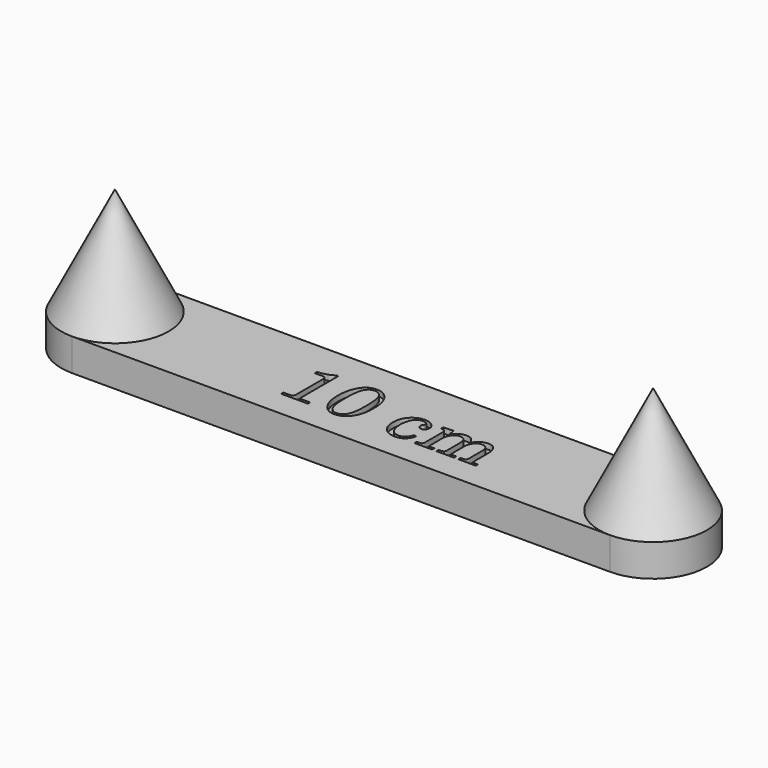
from build123d import *

# Parameters (mm, degrees)
PAD_DEPTH    = 6
POCKET_DEPTH = 1


with BuildPart() as part:
    # Sketch (on DatumPlane) → Pad (new body)
    with BuildSketch(Plane.XY):
        with BuildLine():
            Line((-50, 10), (0, 10))
            Line((0, 10), (50, 10))
            ThreePointArc((50, -10), (60, 0), (50, 10))
            Line((50, -10), (0, -10))
            Line((0, -10), (-50, -10))
            ThreePointArc((-50, 10), (-60, 0), (-50, -10))
        make_face()
    extrude(amount=PAD_DEPTH)

    # Sketch001 (on DatumPlane) → Revolution (revolve)
    with BuildSketch(Plane(origin=(50, 0, 0), x_dir=(1, 0, 0), z_dir=(0, -1, 0))):
        Polygon((0, 26), (10, 6), (0, 6), align=None)
    revolve(axis=Axis((50, 0, 0), (0, 0, 1)))

    # Sketch002 (on DatumPlane) → Revolution001 (revolve)
    with BuildSketch(Plane(origin=(-50, 0, 0), x_dir=(1, 0, 0), z_dir=(0, -1, 0))):
        Polygon((0, 26), (10, 6), (0, 6), align=None)
    revolve(axis=Axis((-50, 0, 0), (0, 0, 1)))

    # Sketch003 (on DatumPlane) → Pocket (cut)
    with BuildSketch(Plane(origin=(-18, 6, 6), x_dir=(1, 0, 0), z_dir=(0, 0, 1))):
        with BuildLine():
            add(Edge.make_bspline(
                [(5.993538, -1.568271), (5.993538, -10.167222)],
                knots=[0, 0, 8.598951, 8.598951], degree=1))
            add(Edge.make_bspline(
                [(5.993538, -10.167222), (5.993538, -10.360147), (6.131341, -10.4635)],
                knots=[0, 0, 0, 1, 1, 1], degree=2))
            add(Edge.make_bspline(
                [(6.131341, -10.4635), (6.331157, -10.608194), (6.620545, -10.608194)],
                knots=[0, 0, 0, 1, 1, 1], degree=2))
            add(Edge.make_bspline(
                [(6.620545, -10.608194), (7.957241, -10.608194)],
                knots=[0, 0, 1.336696, 1.336696], degree=1))
            add(Edge.make_bspline(
                [(7.957241, -10.608194), (7.957241, -11.124958)],
                knots=[0, 0, 0.516764, 0.516764], degree=1))
            add(Edge.make_bspline(
                [(7.957241, -11.124958), (3.003197, -11.124958)],
                knots=[0, 0, 4.954044, 4.954044], degree=1))
            add(Edge.make_bspline(
                [(3.003197, -11.124958), (3.003197, -10.608194)],
                knots=[0, 0, 0.516764, 0.516764], degree=1))
            add(Edge.make_bspline(
                [(3.003197, -10.608194), (4.146968, -10.608194)],
                knots=[0, 0, 1.143771, 1.143771], degree=1))
            add(Edge.make_bspline(
                [(4.146968, -10.608194), (4.505258, -10.608194), (4.677512, -10.44283)],
                knots=[0, 0, 0, 1, 1, 1], degree=2))
            add(Edge.make_bspline(
                [(4.677512, -10.44283), (4.849767, -10.270575), (4.849767, -9.988077)],
                knots=[0, 0, 0, 1, 1, 1], degree=2))
            add(Edge.make_bspline(
                [(4.849767, -9.988077), (4.849767, -3.490632)],
                knots=[0, 0, 6.497445, 6.497445], degree=1))
            add(Edge.make_bspline(
                [(4.849767, -3.490632), (4.849767, -3.290817), (4.691293, -3.153013)],
                knots=[0, 0, 0, 1, 1, 1], degree=2))
            add(Edge.make_bspline(
                [(4.691293, -3.153013), (4.532818, -3.01521), (4.284772, -3.01521)],
                knots=[0, 0, 0, 1, 1, 1], degree=2))
            add(Edge.make_bspline(
                [(4.284772, -3.01521), (2.75515, -3.01521)],
                knots=[0, 0, 1.529621, 1.529621], degree=1))
            add(Edge.make_bspline(
                [(2.75515, -3.01521), (2.75515, -2.539787)],
                knots=[0, 0, 0.475423, 0.475423], degree=1))
            add(Edge.make_bspline(
                [(2.75515, -2.539787), (3.830019, -2.401983), (4.498367, -2.174607)],
                knots=[0, 0, 0, 1, 1, 1], degree=2))
            add(Edge.make_bspline(
                [(4.498367, -2.174607), (5.166715, -1.940341), (5.676589, -1.568271)],
                knots=[0, 0, 0, 1, 1, 1], degree=2))
            add(Edge.make_bspline(
                [(5.676589, -1.568271), (5.993538, -1.568271)],
                knots=[0, 0, 0.316949, 0.316949], degree=1))
        make_face()
        with BuildLine():
            add(Edge.make_bspline(
                [(12.993966, -1.389126), (14.337552, -1.389126), (15.233277, -2.436434)],
                knots=[0, 0, 0, 1, 1, 1], degree=2))
            add(Edge.make_bspline(
                [(15.233277, -2.436434), (16.342596, -3.724899), (16.342596, -6.343169)],
                knots=[0, 0, 0, 1, 1, 1], degree=2))
            add(Edge.make_bspline(
                [(16.342596, -6.343169), (16.342596, -8.775405), (15.37797, -10.050089)],
                knots=[0, 0, 0, 1, 1, 1], degree=2))
            add(Edge.make_bspline(
                [(15.37797, -10.050089), (14.413344, -11.317883), (13.049088, -11.317883)],
                knots=[0, 0, 0, 1, 1, 1], degree=2))
            add(Edge.make_bspline(
                [(13.049088, -11.317883), (11.733062, -11.317883), (10.851118, -10.249904)],
                knots=[0, 0, 0, 1, 1, 1], degree=2))
            add(Edge.make_bspline(
                [(10.851118, -10.249904), (9.748689, -8.906318), (9.748689, -6.37073)],
                knots=[0, 0, 0, 1, 1, 1], degree=2))
            add(Edge.make_bspline(
                [(9.748689, -6.37073), (9.748689, -3.959165), (10.789107, -2.532897)],
                knots=[0, 0, 0, 1, 1, 1], degree=2))
            add(Edge.make_bspline(
                [(10.789107, -2.532897), (11.622819, -1.389126), (12.993966, -1.389126)],
                knots=[0, 0, 0, 1, 1, 1], degree=2))
        make_face()
        with BuildLine():
            add(Edge.make_bspline(
                [(13.035306, -1.885219), (12.125802, -1.885219), (11.615928, -2.760273)],
                knots=[0, 0, 0, 1, 1, 1], degree=2))
            add(Edge.make_bspline(
                [(11.615928, -2.760273), (11.106054, -3.628436), (11.106054, -6.37073)],
                knots=[0, 0, 0, 1, 1, 1], degree=2))
            add(Edge.make_bspline(
                [(11.106054, -6.37073), (11.106054, -9.051012), (11.629708, -9.946736)],
                knots=[0, 0, 0, 1, 1, 1], degree=2))
            add(Edge.make_bspline(
                [(11.629708, -9.946736), (12.160253, -10.84246), (13.049087, -10.84246)],
                knots=[0, 0, 0, 1, 1, 1], degree=2))
            add(Edge.make_bspline(
                [(13.049087, -10.84246), (13.944811, -10.84246), (14.427124, -10.015638)],
                knots=[0, 0, 0, 1, 1, 1], degree=2))
            add(Edge.make_bspline(
                [(14.427124, -10.015638), (14.999009, -9.030342), (14.999009, -6.418961)],
                knots=[0, 0, 0, 1, 1, 1], degree=2))
            add(Edge.make_bspline(
                [(14.999009, -6.418961), (14.999009, -3.718008), (14.461575, -2.801614)],
                knots=[0, 0, 0, 1, 1, 1], degree=2))
            add(Edge.make_bspline(
                [(14.461575, -2.801614), (13.92414, -1.885219), (13.035306, -1.885219)],
                knots=[0, 0, 0, 1, 1, 1], degree=2))
        make_face(mode=Mode.SUBTRACT)
        with BuildLine():
            add(Edge.make_bspline(
                [(26.216232, -9.209486), (26.664094, -9.3404)],
                knots=[0, 0, 0.466603, 0.466603], degree=1))
            add(Edge.make_bspline(
                [(26.664094, -9.3404), (26.126659, -11.317883), (24.29387, -11.317883)],
                knots=[0, 0, 0, 1, 1, 1], degree=2))
            add(Edge.make_bspline(
                [(24.29387, -11.317883), (22.950284, -11.317883), (22.095901, -10.429049)],
                knots=[0, 0, 0, 1, 1, 1], degree=2))
            add(Edge.make_bspline(
                [(22.095901, -10.429049), (21.241518, -9.540215), (21.241518, -8.065716)],
                knots=[0, 0, 0, 1, 1, 1], degree=2))
            add(Edge.make_bspline(
                [(21.241518, -8.065716), (21.241518, -6.35695), (22.178583, -5.419884)],
                knots=[0, 0, 0, 1, 1, 1], degree=2))
            add(Edge.make_bspline(
                [(22.178583, -5.419884), (23.115648, -4.475929), (24.383442, -4.475929)],
                knots=[0, 0, 0, 1, 1, 1], degree=2))
            add(Edge.make_bspline(
                [(24.383442, -4.475929), (25.334288, -4.475929), (25.954405, -4.999583)],
                knots=[0, 0, 0, 1, 1, 1], degree=2))
            add(Edge.make_bspline(
                [(25.954405, -4.999583), (26.574521, -5.523237), (26.574521, -6.164024)],
                knots=[0, 0, 0, 1, 1, 1], degree=2))
            add(Edge.make_bspline(
                [(26.574521, -6.164024), (26.574521, -6.549875), (26.340255, -6.804812)],
                knots=[0, 0, 0, 1, 1, 1], degree=2))
            add(Edge.make_bspline(
                [(26.340255, -6.804812), (26.112879, -7.052858), (25.79593, -7.052858)],
                knots=[0, 0, 0, 1, 1, 1], degree=2))
            add(Edge.make_bspline(
                [(25.79593, -7.052858), (25.485872, -7.052858), (25.272276, -6.839263)],
                knots=[0, 0, 0, 1, 1, 1], degree=2))
            add(Edge.make_bspline(
                [(25.272276, -6.839263), (25.058681, -6.625667), (25.058681, -6.322499)],
                knots=[0, 0, 0, 1, 1, 1], degree=2))
            add(Edge.make_bspline(
                [(25.058681, -6.322499), (25.058681, -6.019331), (25.292947, -5.743723)],
                knots=[0, 0, 0, 1, 1, 1], degree=2))
            add(Edge.make_bspline(
                [(25.292947, -5.743723), (25.40319, -5.61281), (25.40319, -5.537018)],
                knots=[0, 0, 0, 1, 1, 1], degree=2))
            add(Edge.make_bspline(
                [(25.40319, -5.537018), (25.40319, -5.337202), (25.134473, -5.151167)],
                knots=[0, 0, 0, 1, 1, 1], degree=2))
            add(Edge.make_bspline(
                [(25.134473, -5.151167), (24.865755, -4.958242), (24.404113, -4.958242)],
                knots=[0, 0, 0, 1, 1, 1], degree=2))
            add(Edge.make_bspline(
                [(24.404113, -4.958242), (23.56351, -4.958242), (23.129429, -5.571468)],
                knots=[0, 0, 0, 1, 1, 1], degree=2))
            add(Edge.make_bspline(
                [(23.129429, -5.571468), (22.509312, -6.460302), (22.509312, -7.914131)],
                knots=[0, 0, 0, 1, 1, 1], degree=2))
            add(Edge.make_bspline(
                [(22.509312, -7.914131), (22.509312, -9.299059), (23.060527, -10.015638)],
                knots=[0, 0, 0, 1, 1, 1], degree=2))
            add(Edge.make_bspline(
                [(23.060527, -10.015638), (23.611742, -10.725327), (24.466125, -10.725327)],
                knots=[0, 0, 0, 1, 1, 1], degree=2))
            add(Edge.make_bspline(
                [(24.466125, -10.725327), (25.644346, -10.725327), (26.216232, -9.209486)],
                knots=[0, 0, 0, 1, 1, 1], degree=2))
        make_face()
        with BuildLine():
            add(Edge.make_bspline(
                [(27.945669, -4.668854), (29.792239, -4.551721)],
                knots=[0, 0, 1.850281, 1.850281], degree=1))
            add(Edge.make_bspline(
                [(29.792239, -4.551721), (29.943823, -5.27519), (29.992055, -5.929758)],
                knots=[0, 0, 0, 1, 1, 1], degree=2))
            add(Edge.make_bspline(
                [(29.992055, -5.929758), (30.515709, -5.171838), (31.039363, -4.861779)],
                knots=[0, 0, 0, 1, 1, 1], degree=2))
            add(Edge.make_bspline(
                [(31.039363, -4.861779), (31.563017, -4.551721), (32.190024, -4.551721)],
                knots=[0, 0, 0, 1, 1, 1], degree=2))
            add(Edge.make_bspline(
                [(32.190024, -4.551721), (32.858372, -4.551721), (33.292454, -4.90312)],
                knots=[0, 0, 0, 1, 1, 1], degree=2))
            add(Edge.make_bspline(
                [(33.292454, -4.90312), (33.726535, -5.25452), (33.960802, -6.046891)],
                knots=[0, 0, 0, 1, 1, 1], degree=2))
            add(Edge.make_bspline(
                [(33.960802, -6.046891), (34.422444, -5.295861), (34.987439, -4.923791)],
                knots=[0, 0, 0, 1, 1, 1], degree=2))
            add(Edge.make_bspline(
                [(34.987439, -4.923791), (35.552434, -4.551721), (36.220782, -4.551721)],
                knots=[0, 0, 0, 1, 1, 1], degree=2))
            add(Edge.make_bspline(
                [(36.220782, -4.551721), (37.102726, -4.551721), (37.543698, -5.075375)],
                knots=[0, 0, 0, 1, 1, 1], degree=2))
            add(Edge.make_bspline(
                [(37.543698, -5.075375), (38.108693, -5.764394), (38.108693, -6.853043)],
                knots=[0, 0, 0, 1, 1, 1], degree=2))
            add(Edge.make_bspline(
                [(38.108693, -6.853043), (38.108693, -10.056979)],
                knots=[0, 0, 3.203936, 3.203936], degree=1))
            add(Edge.make_bspline(
                [(38.108693, -10.056979), (38.108693, -10.346367), (38.253387, -10.44972)],
                knots=[0, 0, 0, 1, 1, 1], degree=2))
            add(Edge.make_bspline(
                [(38.253387, -10.44972), (38.446312, -10.608194), (38.825273, -10.608194)],
                knots=[0, 0, 0, 1, 1, 1], degree=2))
            add(Edge.make_bspline(
                [(38.825273, -10.608194), (39.149111, -10.608194)],
                knots=[0, 0, 0.323838, 0.323838], degree=1))
            add(Edge.make_bspline(
                [(39.149111, -10.608194), (39.149111, -11.124958)],
                knots=[0, 0, 0.516764, 0.516764], degree=1))
            add(Edge.make_bspline(
                [(39.149111, -11.124958), (35.903834, -11.124958)],
                knots=[0, 0, 3.245277, 3.245277], degree=1))
            add(Edge.make_bspline(
                [(35.903834, -11.124958), (35.903834, -10.608194)],
                knots=[0, 0, 0.516764, 0.516764], degree=1))
            add(Edge.make_bspline(
                [(35.903834, -10.608194), (36.227673, -10.608194)],
                knots=[0, 0, 0.323839, 0.323839], degree=1))
            add(Edge.make_bspline(
                [(36.227673, -10.608194), (36.641084, -10.608194), (36.806448, -10.47039)],
                knots=[0, 0, 0, 1, 1, 1], degree=2))
            add(Edge.make_bspline(
                [(36.806448, -10.47039), (36.971813, -10.332587), (36.971813, -10.056979)],
                knots=[0, 0, 0, 1, 1, 1], degree=2))
            add(Edge.make_bspline(
                [(36.971813, -10.056979), (36.971813, -6.853043)],
                knots=[0, 0, 3.203936, 3.203936], degree=1))
            add(Edge.make_bspline(
                [(36.971813, -6.853043), (36.971813, -6.136464), (36.620413, -5.743723)],
                knots=[0, 0, 0, 1, 1, 1], degree=2))
            add(Edge.make_bspline(
                [(36.620413, -5.743723), (36.269014, -5.350983), (35.697128, -5.350983)],
                knots=[0, 0, 0, 1, 1, 1], degree=2))
            add(Edge.make_bspline(
                [(35.697128, -5.350983), (35.263047, -5.350983), (34.911647, -5.585249)],
                knots=[0, 0, 0, 1, 1, 1], degree=2))
            add(Edge.make_bspline(
                [(34.911647, -5.585249), (34.560248, -5.812625), (34.360432, -6.239816)],
                knots=[0, 0, 0, 1, 1, 1], degree=2))
            add(Edge.make_bspline(
                [(34.360432, -6.239816), (34.064154, -6.853043), (34.064154, -7.280234)],
                knots=[0, 0, 0, 1, 1, 1], degree=2))
            add(Edge.make_bspline(
                [(34.064154, -7.280234), (34.064154, -10.056979)],
                knots=[0, 0, 2.776745, 2.776745], degree=1))
            add(Edge.make_bspline(
                [(34.064154, -10.056979), (34.064154, -10.339477), (34.215738, -10.477281)],
                knots=[0, 0, 0, 1, 1, 1], degree=2))
            add(Edge.make_bspline(
                [(34.215738, -10.477281), (34.367322, -10.608194), (34.684271, -10.608194)],
                knots=[0, 0, 0, 1, 1, 1], degree=2))
            add(Edge.make_bspline(
                [(34.684271, -10.608194), (35.125243, -10.608194)],
                knots=[0, 0, 0.440972, 0.440972], degree=1))
            add(Edge.make_bspline(
                [(35.125243, -10.608194), (35.125243, -11.124958)],
                knots=[0, 0, 0.516764, 0.516764], degree=1))
            add(Edge.make_bspline(
                [(35.125243, -11.124958), (31.838624, -11.124958)],
                knots=[0, 0, 3.286619, 3.286619], degree=1))
            add(Edge.make_bspline(
                [(31.838624, -11.124958), (31.838624, -10.608194)],
                knots=[0, 0, 0.516764, 0.516764], degree=1))
            add(Edge.make_bspline(
                [(31.838624, -10.608194), (32.210694, -10.608194)],
                knots=[0, 0, 0.37207, 0.37207], degree=1))
            add(Edge.make_bspline(
                [(32.210694, -10.608194), (32.562094, -10.608194), (32.734348, -10.47039)],
                knots=[0, 0, 0, 1, 1, 1], degree=2))
            add(Edge.make_bspline(
                [(32.734348, -10.47039), (32.906603, -10.332587), (32.906603, -10.118991)],
                knots=[0, 0, 0, 1, 1, 1], degree=2))
            add(Edge.make_bspline(
                [(32.906603, -10.118991), (32.906603, -7.142431)],
                knots=[0, 0, 2.97656, 2.97656], degree=1))
            add(Edge.make_bspline(
                [(32.906603, -7.142431), (32.906603, -6.198475), (32.568984, -5.771284)],
                knots=[0, 0, 0, 1, 1, 1], degree=2))
            add(Edge.make_bspline(
                [(32.568984, -5.771284), (32.238255, -5.344092), (31.67326, -5.344092)],
                knots=[0, 0, 0, 1, 1, 1], degree=2))
            add(Edge.make_bspline(
                [(31.67326, -5.344092), (30.9429, -5.344092), (30.55016, -5.840186)],
                knots=[0, 0, 0, 1, 1, 1], degree=2))
            add(Edge.make_bspline(
                [(30.55016, -5.840186), (29.992055, -6.542985), (29.992055, -7.48005)],
                knots=[0, 0, 0, 1, 1, 1], degree=2))
            add(Edge.make_bspline(
                [(29.992055, -7.48005), (29.992055, -10.056979)],
                knots=[0, 0, 2.576929, 2.576929], degree=1))
            add(Edge.make_bspline(
                [(29.992055, -10.056979), (29.992055, -10.353257), (30.122968, -10.4635)],
                knots=[0, 0, 0, 1, 1, 1], degree=2))
            add(Edge.make_bspline(
                [(30.122968, -10.4635), (30.309003, -10.608194), (30.701744, -10.608194)],
                knots=[0, 0, 0, 1, 1, 1], degree=2))
            add(Edge.make_bspline(
                [(30.701744, -10.608194), (31.032473, -10.608194)],
                knots=[0, 0, 0.330729, 0.330729], degree=1))
            add(Edge.make_bspline(
                [(31.032473, -10.608194), (31.032473, -11.124958)],
                knots=[0, 0, 0.516764, 0.516764], degree=1))
            add(Edge.make_bspline(
                [(31.032473, -11.124958), (27.780305, -11.124958)],
                knots=[0, 0, 3.252168, 3.252168], degree=1))
            add(Edge.make_bspline(
                [(27.780305, -11.124958), (27.780305, -10.608194)],
                knots=[0, 0, 0.516764, 0.516764], degree=1))
            add(Edge.make_bspline(
                [(27.780305, -10.608194), (28.269508, -10.608194)],
                knots=[0, 0, 0.489203, 0.489203], degree=1))
            add(Edge.make_bspline(
                [(28.269508, -10.608194), (28.545116, -10.608194), (28.689809, -10.47039)],
                knots=[0, 0, 0, 1, 1, 1], degree=2))
            add(Edge.make_bspline(
                [(28.689809, -10.47039), (28.841394, -10.332587), (28.841394, -10.118991)],
                knots=[0, 0, 0, 1, 1, 1], degree=2))
            add(Edge.make_bspline(
                [(28.841394, -10.118991), (28.841394, -5.888417)],
                knots=[0, 0, 4.230574, 4.230574], degree=1))
            add(Edge.make_bspline(
                [(28.841394, -5.888417), (28.841394, -5.537018), (28.662249, -5.364763)],
                knots=[0, 0, 0, 1, 1, 1], degree=2))
            add(Edge.make_bspline(
                [(28.662249, -5.364763), (28.483104, -5.192508), (27.945669, -5.144277)],
                knots=[0, 0, 0, 1, 1, 1], degree=2))
            add(Edge.make_bspline(
                [(27.945669, -5.144277), (27.945669, -4.668854)],
                knots=[0, 0, 0.475423, 0.475423], degree=1))
        make_face()
    extrude(amount=-POCKET_DEPTH, mode=Mode.SUBTRACT)


solid = part.part
